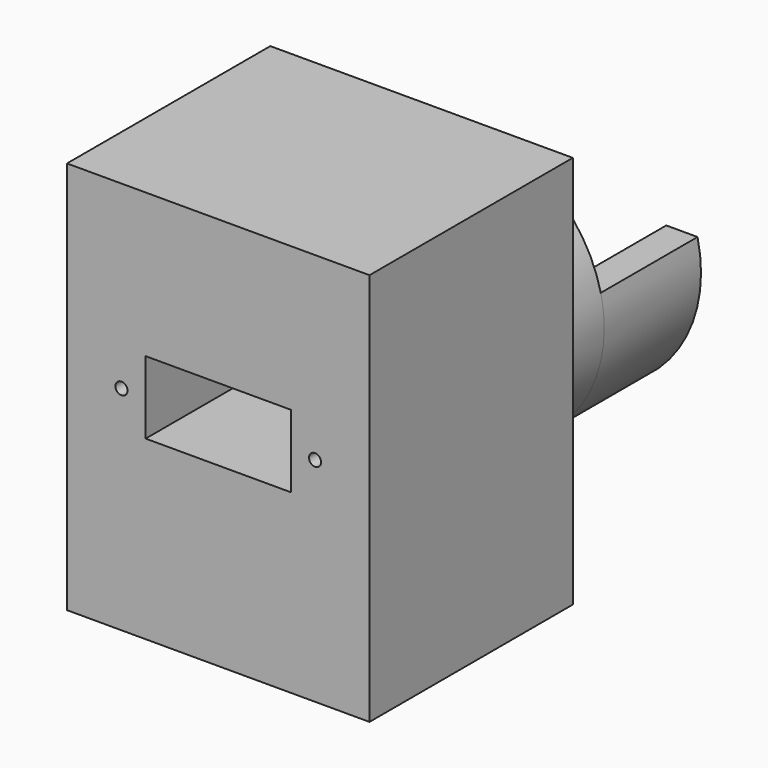
from build123d import *

# Parameters (mm, degrees)
SKETCH023_W     = 25
SKETCH023_H     = 32.5
SKETCH023_R     = 5.8166
PAD011_DEPTH    = 5
SKETCH024_R     = 11.0946
SKETCH024_R_2   = 8.5946
PAD012_DEPTH    = 5
SKETCH025_W     = 25
SKETCH025_H     = 32.5
SKETCH025_R     = 0.5
SKETCH025_W_2   = 12
SKETCH025_H_2   = 6
PAD013_DEPTH    = 16
PAD020_DEPTH    = 10
SKETCH035_R     = 1
POCKET007_DEPTH = 16


with BuildPart() as part:
    # Sketch023 → Pad011 (new body)
    with BuildSketch(Plane.XZ):
        with Locations((0, 6.25)):
            Rectangle(SKETCH023_W, SKETCH023_H)
        with Locations((0, 7.5946)):
            Circle(SKETCH023_R, mode=Mode.SUBTRACT)
    extrude(amount=PAD011_DEPTH)

    # Sketch024 (on Face6 of Pad011) → Pad012 (join)
    with BuildSketch(Plane(origin=(0, 0, 0), x_dir=(1, 0, 0), z_dir=(0, 1, 0))):
        with Locations((0, -7.5946)):
            Circle(SKETCH024_R)
        with Locations((0, -7.5946)):
            Circle(SKETCH024_R_2, mode=Mode.SUBTRACT)
    extrude(amount=PAD012_DEPTH)

    # Sketch025 (on Face5 of Pad012) → Pad013 (join)
    with BuildSketch(Plane.XZ.offset(5)):
        with Locations((0, 6.25)):
            Rectangle(SKETCH025_W, SKETCH025_H)
        with Locations((-8, 7.5946)):
            Circle(SKETCH025_R, mode=Mode.SUBTRACT)
        with Locations((8, 7.5946)):
            Circle(SKETCH025_R, mode=Mode.SUBTRACT)
        with Locations((0, 7.5946)):
            Rectangle(SKETCH025_W_2, SKETCH025_H_2, mode=Mode.SUBTRACT)
    extrude(amount=PAD013_DEPTH)

    # Sketch034 → Pad020 (join)
    with BuildSketch(Plane(origin=(0, 5, 0), x_dir=(1, 0, 0), z_dir=(0, 1, 0))):
        with BuildLine():
            ThreePointArc((8.222965, -10.0946), (0, 1), (-8.222965, -10.0946))
            Line((-10.809262, -10.0946), (-8.222965, -10.0946))
            ThreePointArc((10.809262, -10.0946), (0, 3.5), (-10.809262, -10.0946))
            Line((8.222965, -10.0946), (10.809262, -10.0946))
        make_face()
    extrude(amount=PAD020_DEPTH)

    # Sketch035 → Pocket007 (cut)
    with BuildSketch(Plane.XY):
        with Locations((0, 10)):
            Circle(SKETCH035_R)
    extrude(amount=-POCKET007_DEPTH, mode=Mode.SUBTRACT)


with BuildPart() as part_1:
    # Body005 placement: moved
    add(part.part.moved(Location((0, -373, 0))))


solid = part_1.part
